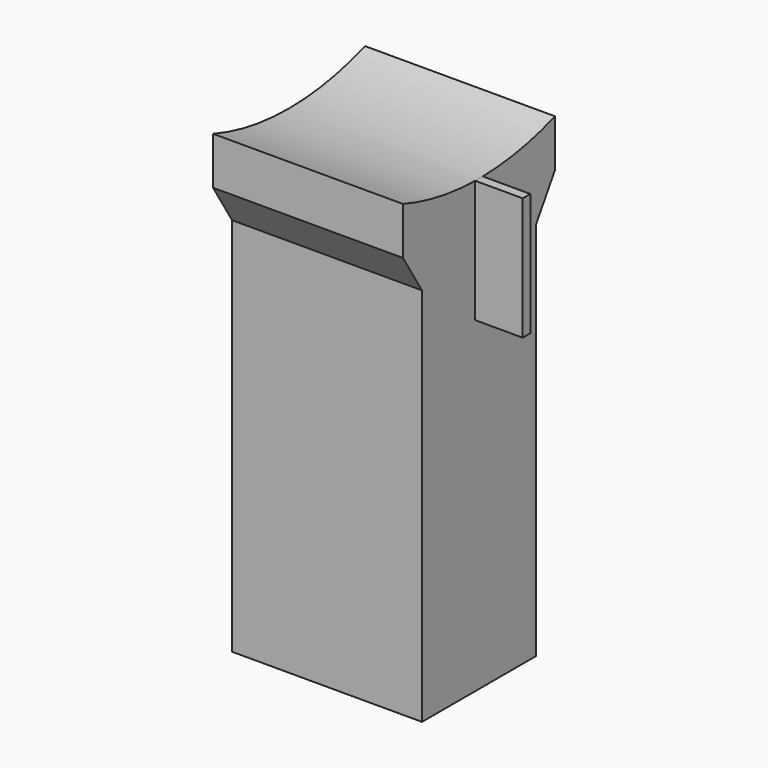
from build123d import *

# Parameters (mm, degrees)
F1_DEPTH = 50.8
F3_DEPTH = 12.7


with BuildPart() as f1:
    # F0 (on Right) → F1 (new body)
    with BuildSketch(Plane.YZ):
        with BuildLine():
            ThreePointArc((25.4, 0), (0, -4.357951), (-25.4, 0))
            Line((-25.4, 0), (-25.4, -12.7))
            Line((-25.4, -12.7), (-19.05, -22.925066))
            Line((-19.05, -22.925066), (-19.05, -124.525066))
            Line((-19.05, -124.525066), (19.05, -124.525066))
            Line((19.05, -124.525066), (19.05, -22.925066))
            Line((19.05, -22.925066), (25.4, -12.7))
            Line((25.4, -12.7), (25.4, 0))
        make_face()
    extrude(amount=F1_DEPTH)

    # F2 (on face) → F3 (join)
    with BuildSketch(Plane.YZ.offset(50.8)):
        with BuildLine():
            ThreePointArc((1.27, -4.347367), (0, -4.357951), (-1.27, -4.347367))
            Line((-1.27, -4.347367), (-1.27, -37.160147))
            Line((-1.27, -37.160147), (1.27, -37.160147))
            Line((1.27, -37.160147), (1.27, -4.347367))
        make_face()
    extrude(amount=F3_DEPTH)


solid = f1.part
